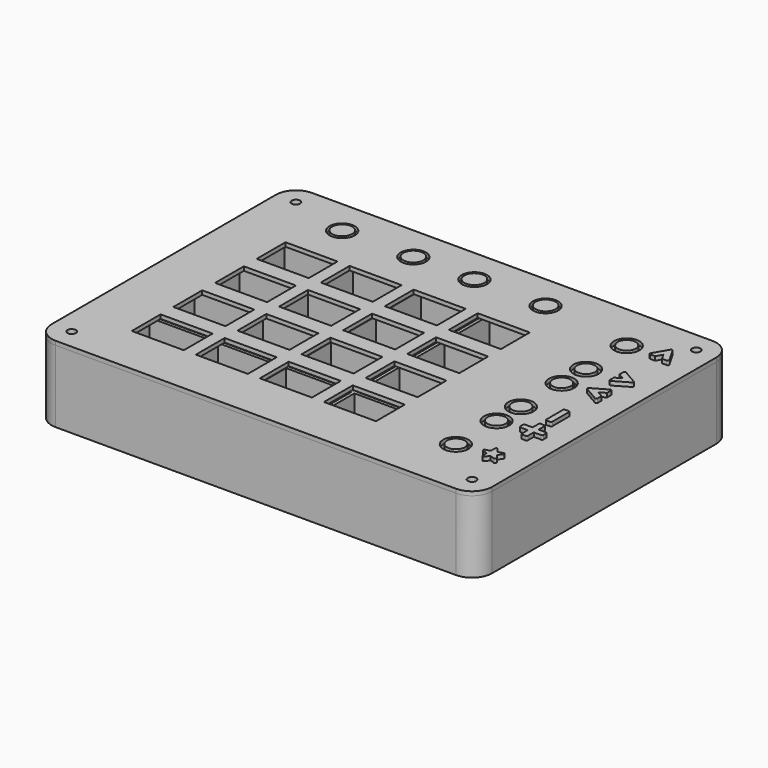
from build123d import *

# Parameters (mm, degrees)
SKETCH004_W             = 51
SKETCH004_H             = 21
SKETCH004_R             = 1
PAD003_DEPTH            = 1
SKETCH005_W             = 6
SKETCH005_H             = 8
SKETCH005_W_2           = 4
SKETCH005_H_2           = 3
PAD004_DEPTH            = 3
SKETCH006_W             = 7
SKETCH006_H             = 7
PAD005_DEPTH            = 1
BODY001_PLACEMENT_ANGLE = 180
SKETCH007_W             = 110
SKETCH007_H             = 80
PAD006_DEPTH            = 18
FILLET_R                = 5
SKETCH008_R             = 1.05
POCKET001_DEPTH         = 17
SKETCH009_R             = 2.5
SKETCH009_R_2           = 1.05
PAD007_DEPTH            = 1
SKETCH010_W             = 9
SKETCH010_H             = 4
POCKET002_DEPTH         = 1
SKETCH034_R             = 2.5
SKETCH034_R_2           = 1.05
PAD022_DEPTH            = 1.9
SKETCH035_W             = 16
SKETCH035_H             = 1
PAD023_DEPTH            = 10
SKETCH036_W             = 16
SKETCH036_H             = 4
PAD024_DEPTH            = 9
SKETCH037_R             = 2.5
SKETCH037_R_2           = 1.05
PAD025_DEPTH            = 9
SKETCH038_W             = 1
SKETCH038_H             = 7
PAD026_DEPTH            = 10
SKETCH039_W             = 3
SKETCH039_H             = 7
PAD027_DEPTH            = 9
SKETCH040_W             = 71.6
SKETCH040_H             = 59.6
SKETCH040_W_2           = 69.6
SKETCH040_H_2           = 57.6
PAD028_DEPTH            = 9
SKETCH041_W             = 69.6
SKETCH041_H             = 57.6
SKETCH041_W_2           = 65
SKETCH041_H_2           = 53
PAD029_DEPTH            = 7
SKETCH042_W             = 3.737823
SKETCH042_H             = 4.05579
SKETCH042_W_2           = 3.532832
SKETCH042_H_2           = 3.864613
SKETCH042_W_3           = 3.228126
SKETCH042_H_3           = 4.012178
SKETCH042_W_4           = 2.786377
SKETCH042_H_4           = 3.681664
SKETCH042_W_5           = 3.760003
SKETCH042_H_5           = 3.112766
SKETCH042_W_6           = 4.34581
SKETCH042_H_6           = 3.19577
SKETCH042_W_7           = 3.94284
SKETCH042_H_7           = 3.029759
SKETCH042_W_8           = 3.931251
SKETCH042_H_8           = 3.281547
POCKET011_DEPTH         = 4
SKETCH044_W             = 4.363612
SKETCH044_H             = 28.943896
SKETCH044_W_2           = 6.223524
SKETCH044_H_2           = 5.107494
SKETCH044_W_3           = 6.223523
SKETCH044_H_3           = 6.921955
SKETCH044_W_4           = 5.947083
SKETCH044_H_4           = 6.586732
POCKET012_DEPTH         = 9
SKETCH049_R             = 1.05
POCKET016_DEPTH         = 10.001
SKETCH017_W             = 71.6
SKETCH017_H             = 59.6
SKETCH017_W_2           = 65
SKETCH017_H_2           = 53
PAD009_DEPTH            = 9
SKETCH015_W             = 69.6
SKETCH015_H             = 57.6
POCKET004_DEPTH         = 2.3
SKETCH016_W             = 4
SKETCH016_H             = 6.120376
SKETCH016_H_2           = 8.800861
SKETCH016_H_3           = 6.480469
SKETCH016_W_2           = 4.590287
SKETCH016_H_4           = 4
SKETCH016_W_3           = 6.815865
SKETCH016_W_4           = 8.345955
SKETCH016_W_5           = 7.094059
POCKET006_DEPTH         = 4
SKETCH018_W             = 70
SKETCH018_H             = 14
SKETCH018_R             = 1
PAD011_DEPTH            = 1.1
SKETCH022_R             = 2.25
PAD014_DEPTH            = 8
BODY004_PLACEMENT_ANGLE = 90
SKETCH019_W             = 74
SKETCH019_H             = 16
PAD013_DEPTH            = 1
SKETCH003_W             = 1
SKETCH003_H             = 16
PAD002_DEPTH            = 10
PAD002_FACE6_W          = 16
PAD002_FACE6_H          = 72
PAD012_DEPTH            = 9
SKETCH021_W             = 66
SKETCH021_H             = 16
POCKET008_DEPTH         = 9
SKETCH023_R             = 2.5
PAD010_DEPTH            = 1.9
SKETCH024_R             = 1.05
POCKET007_DEPTH         = 5
BODY005_PLACEMENT_ANGLE = 90
SKETCH027_W             = 74
SKETCH027_H             = 7
PAD018_DEPTH            = 1
SKETCH028_W             = 1
SKETCH028_H             = 7
PAD016_DEPTH            = 10
PAD016_FACE6_W          = 7
PAD016_FACE6_H          = 72
PAD019_DEPTH            = 9
SKETCH031_W             = 66
SKETCH031_H             = 7
POCKET009_DEPTH         = 9
SKETCH032_R             = 2.5
PAD020_DEPTH            = 9
SKETCH030_R             = 1.05
POCKET010_DEPTH         = 5
BODY006_PLACEMENT_ANGLE = 180
SKETCH029_W             = 70
SKETCH029_H             = 7.62
SKETCH029_R             = 1
PAD017_DEPTH            = 1.1
SKETCH033_R             = 2.5
PAD021_DEPTH            = 8
PAD015_DEPTH            = 1.5
BODY007_PLACEMENT_ANGLE = 180
SKETCH045_R             = 1.05
PAD031_DEPTH            = 1
SKETCH046_R             = 3.15
POCKET013_DEPTH         = 1.001
SKETCH047_W             = 13
SKETCH047_H             = 9
POCKET014_DEPTH         = 1.001
SKETCH048_W             = 1.5
SKETCH048_H             = 5.809476
PAD032_DEPTH            = 1
FILLET001_R             = 0.3
SKETCH_W                = 57
SKETCH_H                = 69
PAD_DEPTH               = 9
SKETCH001_W             = 13.25
SKETCH001_H             = 16.25
POCKET_DEPTH            = 8
SKETCH002_W             = 2
SKETCH002_H             = 51.95
SKETCH002_W_2           = 42.95
SKETCH002_H_2           = 2
POCKET015_DEPTH         = 6
BODY_PLACEMENT_ANGLE    = 90


with BuildPart() as obj1:
    # Sketch004 → Pad003 (new body)
    with BuildSketch(Plane.XY):
        with Locations((-25.5, 10.5)):
            Rectangle(SKETCH004_W, SKETCH004_H)
        with Locations((-49, 16.2)):
            Circle(SKETCH004_R, mode=Mode.SUBTRACT)
        with Locations((-49, 4.8)):
            Circle(SKETCH004_R, mode=Mode.SUBTRACT)
        with Locations((-2, 16.2)):
            Circle(SKETCH004_R, mode=Mode.SUBTRACT)
        with Locations((-2, 4.8)):
            Circle(SKETCH004_R, mode=Mode.SUBTRACT)
    extrude(amount=PAD003_DEPTH)

    # Sketch005 (on Face10 of Pad003) → Pad004 (join)
    with BuildSketch(Plane.XY.offset(1)):
        with Locations((-1, 10.5)):
            Rectangle(SKETCH005_W, SKETCH005_H)
        with Locations((-11.248037, 13.892912)):
            Rectangle(SKETCH005_W_2, SKETCH005_H_2)
    extrude(amount=PAD004_DEPTH)

    # Sketch006 (on Face5 of Pad004) → Pad005 (join)
    with BuildSketch(Plane.XY.offset(1)):
        with Locations((-28.391885, 12.32462)):
            Rectangle(SKETCH006_W, SKETCH006_H)
    extrude(amount=PAD005_DEPTH)


with BuildPart() as obj1_1:
    # Body001 placement: moved
    add(obj1.part.moved(Location((-2, 46.5, -8))).rotate(Axis((-2, 46.5, -8), (0, 0, 1)), BODY001_PLACEMENT_ANGLE))


with BuildPart() as obj2:
    # Sketch007 → Pad006 (new body)
    with BuildSketch(Plane.XY):
        with Locations((55, 40)):
            Rectangle(SKETCH007_W, SKETCH007_H)
    extrude(amount=PAD006_DEPTH)

    # Fillet
    fillet_edges = [obj2.edges().sort_by_distance(p)[0] for p in [
        (110, 0, 9),
        (0, 0, 9),
        (110, 80, 9),
        (0, 80, 9),
    ]]
    fillet(fillet_edges, radius=FILLET_R)

    # Sketch008 (on Face5 of Fillet) → Pocket001 (cut)
    with BuildSketch(Plane.XY.offset(18)):
        with Locations((5, 75)):
            Circle(SKETCH008_R)
        with Locations((5, 5)):
            Circle(SKETCH008_R)
        with Locations((105, 5)):
            Circle(SKETCH008_R)
        with Locations((105, 75)):
            Circle(SKETCH008_R)
        with BuildLine():
            Line((5, 79), (105, 79))
            Line((105, 77.5), (105, 79))
            ThreePointArc((105, 77.5), (103.232233, 73.232233), (107.5, 75))
            Line((107.5, 75), (109, 75))
            Line((109, 75), (109, 5))
            Line((107.5, 5), (109, 5))
            ThreePointArc((107.5, 5), (103.232233, 6.767767), (105, 2.5))
            Line((105, 2.5), (105, 1))
            Line((105, 1), (5, 1))
            Line((5, 2.5), (5, 1))
            ThreePointArc((5, 2.5), (6.767767, 6.767767), (2.5, 5))
            Line((2.5, 5), (1, 5))
            Line((1, 75), (1, 5))
            Line((2.5, 75), (1, 75))
            ThreePointArc((2.5, 75), (6.767767, 73.232233), (5, 77.5))
            Line((5, 77.5), (5, 79))
        make_face()
    extrude(amount=-POCKET001_DEPTH, mode=Mode.SUBTRACT)

    # Sketch009 (on Face34 of Pocket001) → Pad007 (join)
    with BuildSketch(Plane.XY.offset(1)):
        with Locations((4, 45.7)):
            Circle(SKETCH009_R)
        with Locations((4, 45.7)):
            Circle(SKETCH009_R_2, mode=Mode.SUBTRACT)
        with Locations((4, 34.3)):
            Circle(SKETCH009_R)
        with Locations((4, 34.3)):
            Circle(SKETCH009_R_2, mode=Mode.SUBTRACT)
        with Locations((51, 45.7)):
            Circle(SKETCH009_R)
        with Locations((51, 45.7)):
            Circle(SKETCH009_R_2, mode=Mode.SUBTRACT)
        with Locations((51, 34.3)):
            Circle(SKETCH009_R)
        with Locations((51, 34.3)):
            Circle(SKETCH009_R_2, mode=Mode.SUBTRACT)
    extrude(amount=PAD007_DEPTH)

    # Sketch010 (on Face6 of Pad007) → Pocket002 (cut)
    with BuildSketch(Plane(origin=(0, 0, 0), x_dir=(0, -1, 0), z_dir=(-1, 0, 0))):
        with Locations((-40, 4)):
            Rectangle(SKETCH010_W, SKETCH010_H)
    extrude(amount=-POCKET002_DEPTH, mode=Mode.SUBTRACT)

    # Sketch034 (on Face38 of Pocket002) → Pad022 (join)
    with BuildSketch(Plane.XY.offset(1)):
        with Locations((92, 40)):
            Circle(SKETCH034_R)
        with Locations((92, 40)):
            Circle(SKETCH034_R_2, mode=Mode.SUBTRACT)
    extrude(amount=PAD022_DEPTH)

    # Sketch035 (on Face38 of Pad022) → Pad023 (join)
    with BuildSketch(Plane.XY.offset(1)):
        with Locations((94, 77.5)):
            Rectangle(SKETCH035_W, SKETCH035_H)
        with Locations((94, 4.5)):
            Rectangle(SKETCH035_W, SKETCH035_H)
    extrude(amount=PAD023_DEPTH)

    # Sketch036 (on Face38 of Pad023) → Pad024 (join)
    with BuildSketch(Plane.XY.offset(1)):
        with Locations((94, 76)):
            Rectangle(SKETCH036_W, SKETCH036_H)
        with Locations((94, 6)):
            Rectangle(SKETCH036_W, SKETCH036_H)
    extrude(amount=PAD024_DEPTH)

    # Sketch037 (on Face38 of Pad024) → Pad025 (join)
    with BuildSketch(Plane.XY.offset(1)):
        with Locations((45, 69.92)):
            Circle(SKETCH037_R)
        with Locations((45, 69.92)):
            Circle(SKETCH037_R_2, mode=Mode.SUBTRACT)
    extrude(amount=PAD025_DEPTH)

    # Sketch038 (on Face38 of Pad025) → Pad026 (join)
    with BuildSketch(Plane.XY.offset(1)):
        with Locations((7.5, 70.42)):
            Rectangle(SKETCH038_W, SKETCH038_H)
        with Locations((80.5, 70.42)):
            Rectangle(SKETCH038_W, SKETCH038_H)
    extrude(amount=PAD026_DEPTH)

    # Sketch039 (on Face38 of Pad026) → Pad027 (join)
    with BuildSketch(Plane.XY.offset(1)):
        with Locations((9.5, 70.42)):
            Rectangle(SKETCH039_W, SKETCH039_H)
        with Locations((78.5, 70.42)):
            Rectangle(SKETCH039_W, SKETCH039_H)
    extrude(amount=PAD027_DEPTH)

    # Sketch040 (on Face38 of Pad027) → Pad028 (join)
    with BuildSketch(Plane.XY.offset(1)):
        with Locations((44.5, 36.5)):
            Rectangle(SKETCH040_W, SKETCH040_H)
        with Locations((44.5, 36.5)):
            Rectangle(SKETCH040_W_2, SKETCH040_H_2, mode=Mode.SUBTRACT)
    extrude(amount=PAD028_DEPTH)

    # Sketch041 (on Face104 of Pad028) → Pad029 (join)
    with BuildSketch(Plane.XY.offset(1)):
        with Locations((44.5, 36.5)):
            Rectangle(SKETCH041_W, SKETCH041_H)
        with Locations((44.5, 36.5)):
            Rectangle(SKETCH041_W_2, SKETCH041_H_2, mode=Mode.SUBTRACT)
    extrude(amount=PAD029_DEPTH)

    # Sketch042 (on Face80 of Pad029) → Pocket011 (cut)
    with BuildSketch(Plane.XY.offset(10)):
        with Locations((25.124486, 64.604414)):
            Rectangle(SKETCH042_W, SKETCH042_H)
        with Locations((42.285055, 64.726515)):
            Rectangle(SKETCH042_W_2, SKETCH042_H_2)
        with Locations((59.258728, 64.491966)):
            Rectangle(SKETCH042_W_3, SKETCH042_H_3)
        with Locations((76.717072, 64.728905)):
            Rectangle(SKETCH042_W_4, SKETCH042_H_4)
        with Locations((78.681004, 52.679392)):
            Rectangle(SKETCH042_W_5, SKETCH042_H_5)
        with Locations((78.755173, 38.478939)):
            Rectangle(SKETCH042_W_6, SKETCH042_H_6)
        with Locations((78.670883, 24.575254)):
            Rectangle(SKETCH042_W_7, SKETCH042_H_7)
        with Locations((78.853168, 10.715007)):
            Rectangle(SKETCH042_W_8, SKETCH042_H_8)
    extrude(amount=-POCKET011_DEPTH, mode=Mode.SUBTRACT)

    # Sketch044 → Pocket012 (cut)
    with BuildSketch(Plane.XY.offset(10)):
        with Locations((10.514859, 40)):
            Rectangle(SKETCH044_W, SKETCH044_H)
        with Locations((34.904027, 64.856585)):
            Rectangle(SKETCH044_W_2, SKETCH044_H_2)
        with Locations((70.2419, 64.198629)):
            Rectangle(SKETCH044_W_3, SKETCH044_H_3)
        with Locations((78.689301, 31.457982)):
            Rectangle(SKETCH044_W_4, SKETCH044_H_4)
    extrude(amount=-POCKET012_DEPTH, mode=Mode.SUBTRACT)

    # Sketch049 (on Face96 of Pocket012) → Pocket016 (cut, through all)
    with BuildSketch(Plane.XY.offset(10)):
        with Locations((4, 45.7)):
            Circle(SKETCH049_R)
        with Locations((4, 34.3)):
            Circle(SKETCH049_R)
        with Locations((51, 45.7)):
            Circle(SKETCH049_R)
        with Locations((51, 34.3)):
            Circle(SKETCH049_R)
        with Locations((92, 40)):
            Circle(SKETCH049_R)
    extrude(amount=-POCKET016_DEPTH, mode=Mode.SUBTRACT)


with BuildPart() as obj2_1:
    # Body002 placement: moved
    add(obj2.part.moved(Location((-4, -4, -10))))


with BuildPart() as matrix_stand:
    # Sketch017 → Pad009 (new body)
    with BuildSketch(Plane.XY):
        with Locations((32.5, 26.5)):
            Rectangle(SKETCH017_W, SKETCH017_H)
        with Locations((32.5, 26.5)):
            Rectangle(SKETCH017_W_2, SKETCH017_H_2, mode=Mode.SUBTRACT)
    extrude(amount=PAD009_DEPTH)

    # Sketch015 (on Face10 of Pad009) → Pocket004 (cut)
    with BuildSketch(Plane.XY.offset(9)):
        with Locations((32.5, 26.5)):
            Rectangle(SKETCH015_W, SKETCH015_H)
    extrude(amount=-POCKET004_DEPTH, mode=Mode.SUBTRACT)

    # Sketch016 (on Face5 of Pocket004) → Pocket006 (cut)
    with BuildSketch(Plane.XY.offset(9)):
        with Locations((2, 55.074108)):
            Rectangle(SKETCH016_W, SKETCH016_H)
        with Locations((18, 54.935013)):
            Rectangle(SKETCH016_W, SKETCH016_H)
        with Locations((34, 55.440656)):
            Rectangle(SKETCH016_W, SKETCH016_H_2)
        with Locations((50, 54.707588)):
            Rectangle(SKETCH016_W, SKETCH016_H_3)
        with Locations((66.644729, 51)):
            Rectangle(SKETCH016_W_2, SKETCH016_H_4)
        with Locations((68.408039, 38)):
            Rectangle(SKETCH016_W_3, SKETCH016_H_4)
        with Locations((68.127536, 25)):
            Rectangle(SKETCH016_W_4, SKETCH016_H_4)
        with Locations((67.62956, 12)):
            Rectangle(SKETCH016_W_5, SKETCH016_H_4)
    extrude(amount=-POCKET006_DEPTH, mode=Mode.SUBTRACT)


with BuildPart() as matrix_stand_1:
    # Body003 placement: moved
    add(matrix_stand.part.moved(Location((8, 6, -9))))


with BuildPart() as pcb_bottom:
    # Sketch018 → Pad011 (new body)
    with BuildSketch(Plane.XY):
        with Locations((35, 7)):
            Rectangle(SKETCH018_W, SKETCH018_H)
        with Locations((34, 9)):
            Circle(SKETCH018_R, mode=Mode.SUBTRACT)
    extrude(amount=PAD011_DEPTH)

    # Sketch022 (on Face7 of Pad011) → Pad014 (join)
    with BuildSketch(Plane.XY.offset(1.1)):
        with Locations((28.92, 7.73)):
            Circle(SKETCH022_R)
        with Locations((41.62, 7.73)):
            Circle(SKETCH022_R)
        with Locations((49.24, 7.73)):
            Circle(SKETCH022_R)
        with Locations((61.94, 7.73)):
            Circle(SKETCH022_R)
        with Locations((8.6, 7.73)):
            Circle(SKETCH022_R)
        with Locations((21.3, 7.73)):
            Circle(SKETCH022_R)
    extrude(amount=PAD014_DEPTH)


with BuildPart() as pcb_bottom_1:
    # Body004 placement: moved
    add(pcb_bottom.part.moved(Location((97, 2, 0))).rotate(Axis((97, 2, 0), (0, 0, 1)), BODY004_PLACEMENT_ANGLE))


with BuildPart() as stand_bottom:
    # Sketch019 → Pad013 (new body)
    with BuildSketch(Plane.XY):
        with Locations((35, 7)):
            Rectangle(SKETCH019_W, SKETCH019_H)
    extrude(amount=PAD013_DEPTH)

    # Sketch003 (on Face6 of Pad013) → Pad002 (join)
    with BuildSketch(Plane.XY.offset(1)):
        with Locations((-1.5, 7)):
            Rectangle(SKETCH003_W, SKETCH003_H)
        with Locations((71.5, 7)):
            Rectangle(SKETCH003_W, SKETCH003_H)
    extrude(amount=PAD002_DEPTH)

    # Pad002 Face6 → Pad012 (add)
    with BuildSketch(Plane(origin=(35, 7, 1), x_dir=(0, 1, 0), z_dir=(0, 0, 1))):
        Rectangle(PAD002_FACE6_W, PAD002_FACE6_H)
    extrude(amount=PAD012_DEPTH)

    # Sketch021 (on Face13 of Pad012) → Pocket008 (cut)
    with BuildSketch(Plane.XY.offset(10)):
        with Locations((35, 7)):
            Rectangle(SKETCH021_W, SKETCH021_H)
    extrude(amount=-POCKET008_DEPTH, mode=Mode.SUBTRACT)

    # Sketch023 (on Face7 of Pocket008) → Pad010 (join)
    with BuildSketch(Plane.XY.offset(1)):
        with Locations((34, 9)):
            Circle(SKETCH023_R)
    extrude(amount=PAD010_DEPTH)

    # Sketch024 (on Face26 of Pad010) → Pocket007 (cut)
    with BuildSketch(Plane.XY.offset(2.9)):
        with Locations((34, 9)):
            Circle(SKETCH024_R)
    extrude(amount=-POCKET007_DEPTH, mode=Mode.SUBTRACT)


with BuildPart() as stand_bottom_1:
    # Body005 placement: moved
    add(stand_bottom.part.moved(Location((97, 2, -10))).rotate(Axis((97, 2, -10), (0, 0, 1)), BODY005_PLACEMENT_ANGLE))


with BuildPart() as stand_side:
    # Sketch027 → Pad018 (new body)
    with BuildSketch(Plane.XY):
        with Locations((35, 4.58)):
            Rectangle(SKETCH027_W, SKETCH027_H)
    extrude(amount=PAD018_DEPTH)

    # Sketch028 (on Face6 of Pad018) → Pad016 (join)
    with BuildSketch(Plane.XY.offset(1)):
        with Locations((-1.5, 4.58)):
            Rectangle(SKETCH028_W, SKETCH028_H)
        with Locations((71.5, 4.58)):
            Rectangle(SKETCH028_W, SKETCH028_H)
    extrude(amount=PAD016_DEPTH)

    # Pad016 Face6 → Pad019 (add)
    with BuildSketch(Plane(origin=(35, 4.58, 1), x_dir=(0, 1, 0), z_dir=(0, 0, 1))):
        Rectangle(PAD016_FACE6_W, PAD016_FACE6_H)
    extrude(amount=PAD019_DEPTH)

    # Sketch031 (on Face13 of Pad019) → Pocket009 (cut)
    with BuildSketch(Plane.XY.offset(10)):
        with Locations((35, 4.58)):
            Rectangle(SKETCH031_W, SKETCH031_H)
    extrude(amount=-POCKET009_DEPTH, mode=Mode.SUBTRACT)

    # Sketch032 (on Face7 of Pocket009) → Pad020 (join)
    with BuildSketch(Plane.XY.offset(1)):
        with Locations((34, 5.08)):
            Circle(SKETCH032_R)
    extrude(amount=PAD020_DEPTH)

    # Sketch030 (on Face26 of Pad020) → Pocket010 (cut)
    with BuildSketch(Plane.XY.offset(10)):
        with Locations((34, 5.08)):
            Circle(SKETCH030_R)
    extrude(amount=-POCKET010_DEPTH, mode=Mode.SUBTRACT)


with BuildPart() as stand_side_1:
    # Body006 placement: moved
    add(stand_side.part.moved(Location((75, 71, -10))).rotate(Axis((75, 71, -10), (0, 0, 1)), BODY006_PLACEMENT_ANGLE))


with BuildPart() as pcb_side:
    # Sketch029 → Pad017 (new body)
    with BuildSketch(Plane.XY):
        with Locations((35, 3.81)):
            Rectangle(SKETCH029_W, SKETCH029_H)
        with Locations((34, 5.08)):
            Circle(SKETCH029_R, mode=Mode.SUBTRACT)
    extrude(amount=PAD017_DEPTH)

    # Sketch033 (on Face7 of Pad017) → Pad021 (join)
    with BuildSketch(Plane.XY.offset(1.1)):
        with Locations((26.38, 3.81)):
            Circle(SKETCH033_R)
        with Locations((41.62, 3.81)):
            Circle(SKETCH033_R)
        with Locations((59.4, 3.81)):
            Circle(SKETCH033_R)
        with Locations((8.6, 3.81)):
            Circle(SKETCH033_R)
    extrude(amount=PAD021_DEPTH)

    # Sketch025 (on Face5 of Pad021) → Pad015 (join)
    with BuildSketch(Plane.XY.offset(1.1)):
        Polygon((3.106141, 4.536354), (3.106141, 5.623646), (2.164519, 6.167292), (1.222896, 5.623646), (1.222896, 4.536354), (2.164519, 3.992708), align=None)
    extrude(amount=PAD015_DEPTH)


with BuildPart() as pcb_side_1:
    # Body007 placement: moved
    add(pcb_side.part.moved(Location((75, 71, 0))).rotate(Axis((75, 71, 0), (0, 0, 1)), BODY007_PLACEMENT_ANGLE))


with BuildPart() as obj3:
    # Sketch045 → Pad031 (new body)
    with BuildSketch(Plane.XY):
        with BuildLine():
            Line((-4, 71), (-4, 1))
            ThreePointArc((-4, 1), (-2.535534, -2.535534), (1, -4))
            Line((1, -4), (101, -4))
            ThreePointArc((101, -4), (104.535534, -2.535534), (106, 1))
            Line((106, 1), (106, 71))
            ThreePointArc((106, 71), (104.535534, 74.535534), (101, 76))
            Line((101, 76), (1, 76))
            ThreePointArc((1, 76), (-2.535534, 74.535534), (-4, 71))
        make_face()
        with Locations((1, 71)):
            Circle(SKETCH045_R, mode=Mode.SUBTRACT)
        with Locations((1, 1)):
            Circle(SKETCH045_R, mode=Mode.SUBTRACT)
        with Locations((101, 1)):
            Circle(SKETCH045_R, mode=Mode.SUBTRACT)
        with Locations((101, 71)):
            Circle(SKETCH045_R, mode=Mode.SUBTRACT)
    extrude(amount=PAD031_DEPTH)

    # Sketch046 (on Face14 of Pad031) → Pocket013 (cut, through all)
    with BuildSketch(Plane.XY.offset(1)):
        with Locations((15.6, 67.19)):
            Circle(SKETCH046_R)
        with Locations((33.38, 67.19)):
            Circle(SKETCH046_R)
        with Locations((48.62, 67.19)):
            Circle(SKETCH046_R)
        with Locations((66.4, 67.19)):
            Circle(SKETCH046_R)
        with Locations((89.27, 51.24)):
            Circle(SKETCH046_R)
        with Locations((89.27, 43.62)):
            Circle(SKETCH046_R)
        with Locations((89.27, 63.94)):
            Circle(SKETCH046_R)
        with Locations((89.27, 30.92)):
            Circle(SKETCH046_R)
        with Locations((89.27, 23.3)):
            Circle(SKETCH046_R)
        with Locations((89.27, 10.6)):
            Circle(SKETCH046_R)
    extrude(amount=-POCKET013_DEPTH, mode=Mode.SUBTRACT)

    # Sketch047 (on Face5 of Pocket013) → Pocket014 (cut, through all)
    with BuildSketch(Plane.XY.offset(1)):
        with Locations((16.5, 52)):
            Rectangle(SKETCH047_W, SKETCH047_H)
        with Locations((16.5, 39)):
            Rectangle(SKETCH047_W, SKETCH047_H)
        with Locations((16.5, 26)):
            Rectangle(SKETCH047_W, SKETCH047_H)
        with Locations((16.5, 13)):
            Rectangle(SKETCH047_W, SKETCH047_H)
        with Locations((32.5, 39)):
            Rectangle(SKETCH047_W, SKETCH047_H)
        with Locations((32.5, 26)):
            Rectangle(SKETCH047_W, SKETCH047_H)
        with Locations((32.5, 13)):
            Rectangle(SKETCH047_W, SKETCH047_H)
        with Locations((48.5, 39)):
            Rectangle(SKETCH047_W, SKETCH047_H)
        with Locations((48.5, 26)):
            Rectangle(SKETCH047_W, SKETCH047_H)
        with Locations((48.5, 13)):
            Rectangle(SKETCH047_W, SKETCH047_H)
        with Locations((64.5, 39)):
            Rectangle(SKETCH047_W, SKETCH047_H)
        with Locations((64.5, 26)):
            Rectangle(SKETCH047_W, SKETCH047_H)
        with Locations((64.5, 13)):
            Rectangle(SKETCH047_W, SKETCH047_H)
        with Locations((32.5, 52)):
            Rectangle(SKETCH047_W, SKETCH047_H)
        with Locations((48.5, 52)):
            Rectangle(SKETCH047_W, SKETCH047_H)
        with Locations((64.5, 52)):
            Rectangle(SKETCH047_W, SKETCH047_H)
    extrude(amount=-POCKET014_DEPTH, mode=Mode.SUBTRACT)

    # Sketch048 (on Face5 of Pocket014) → Pad032 (join)
    with BuildSketch(Plane.XY.offset(1)):
        Polygon((98.42, 66.94), (95.821924, 62.44), (97.553975, 62.44), (98.42, 63.94), (99.286025, 62.44), (101.018076, 62.44), align=None)
        Polygon((95.42, 43.62), (99.92, 41.021924), (99.92, 42.753975), (98.42, 43.62), (99.92, 44.486025), (99.92, 46.218076), align=None)
        Polygon((101.42, 51.24), (96.92, 53.838076), (96.92, 52.106025), (98.42, 51.24), (96.92, 50.373975), (96.92, 48.641924), align=None)
        Polygon((101.324738, 24.05), (101.324738, 22.55), (99.17, 22.55), (99.17, 20.395262), (97.67, 20.395262), (97.67, 22.55), (95.515262, 22.55), (95.515262, 24.05), (97.67, 24.05), (97.67, 26.204738), (99.17, 26.204738), (99.17, 24.05), align=None)
        with Locations((98.42, 30.92)):
            Rectangle(SKETCH048_W, SKETCH048_H)
        Polygon((97.492949, 11.273542), (95.42, 10.6), (97.492949, 9.926458), (97.492949, 7.74683), (98.774102, 9.510186), (100.847051, 8.836644), (99.565898, 10.6), (100.847051, 12.363356), (98.774102, 11.689814), (97.492949, 13.45317), align=None)
    extrude(amount=PAD032_DEPTH)

    # Fillet001
    fillet001_edges = [obj3.edges().sort_by_distance(p)[0] for p in [
        (101.018076, 62.44, 1.5),
        (98.42, 66.94, 1.5),
        (96.92, 53.838076, 1.5),
        (101.42, 51.24, 1.5),
        (99.92, 46.218076, 1.5),
        (95.42, 43.62, 1.5),
        (99.92, 41.021924, 1.5),
        (99.17, 33.824738, 1.5),
        (97.67, 33.824738, 1.5),
        (99.17, 28.015262, 1.5),
        (99.17, 26.204738, 1.5),
        (97.67, 26.204738, 1.5),
        (95.515262, 24.05, 1.5),
        (99.17, 20.395262, 1.5),
        (101.324738, 22.55, 1.5),
        (101.324738, 24.05, 1.5),
        (100.847051, 8.836644, 1.5),
        (100.847051, 12.363356, 1.5),
        (97.492949, 13.45317, 1.5),
        (95.42, 10.6, 1.5),
        (97.492949, 7.74683, 1.5),
        (97.67, 20.395262, 1.5),
        (95.515262, 22.55, 1.5),
        (96.92, 48.641924, 1.5),
        (95.821924, 62.44, 1.5),
        (97.67, 28.015262, 1.5),
    ]]
    fillet(fillet001_edges, radius=FILLET001_R)


with BuildPart() as obj3_1:
    # Body008 placement: moved
    add(obj3.part.moved(Location((0, 0, 8))))


with BuildPart() as mat_case:
    # Sketch → Pad (new body)
    with BuildSketch(Plane.XY):
        with Locations((28.5, 34.5)):
            Rectangle(SKETCH_W, SKETCH_H)
    extrude(amount=PAD_DEPTH)

    # Sketch001 (on Face6 of Pad) → Pocket (cut)
    with BuildSketch(Plane.XY.offset(9)):
        with Locations((7.425, 60.075)):
            Rectangle(SKETCH001_W, SKETCH001_H)
        with Locations((21.475, 60.075)):
            Rectangle(SKETCH001_W, SKETCH001_H)
        with Locations((35.525, 60.075)):
            Rectangle(SKETCH001_W, SKETCH001_H)
        with Locations((49.575, 60.075)):
            Rectangle(SKETCH001_W, SKETCH001_H)
        with Locations((7.425, 43.025)):
            Rectangle(SKETCH001_W, SKETCH001_H)
        with Locations((7.425, 25.975)):
            Rectangle(SKETCH001_W, SKETCH001_H)
        with Locations((7.425, 8.925)):
            Rectangle(SKETCH001_W, SKETCH001_H)
        with Locations((21.475, 43.025)):
            Rectangle(SKETCH001_W, SKETCH001_H)
        with Locations((35.525, 43.025)):
            Rectangle(SKETCH001_W, SKETCH001_H)
        with Locations((49.575, 43.025)):
            Rectangle(SKETCH001_W, SKETCH001_H)
        with Locations((21.475, 25.975)):
            Rectangle(SKETCH001_W, SKETCH001_H)
        with Locations((35.525, 25.975)):
            Rectangle(SKETCH001_W, SKETCH001_H)
        with Locations((49.575, 25.975)):
            Rectangle(SKETCH001_W, SKETCH001_H)
        with Locations((21.475, 8.925)):
            Rectangle(SKETCH001_W, SKETCH001_H)
        with Locations((35.525, 8.925)):
            Rectangle(SKETCH001_W, SKETCH001_H)
        with Locations((49.575, 8.925)):
            Rectangle(SKETCH001_W, SKETCH001_H)
    extrude(amount=-POCKET_DEPTH, mode=Mode.SUBTRACT)

    # Sketch002 (on Face5 of Pocket) → Pocket015 (cut)
    with BuildSketch(Plane.XY.offset(9)):
        with Locations((2.3, 25.975)):
            Rectangle(SKETCH002_W, SKETCH002_H)
        with Locations((16.35, 25.975)):
            Rectangle(SKETCH002_W, SKETCH002_H)
        with Locations((30.4, 25.975)):
            Rectangle(SKETCH002_W, SKETCH002_H)
        with Locations((44.45, 25.975)):
            Rectangle(SKETCH002_W, SKETCH002_H)
        with Locations((35.525, 53.45)):
            Rectangle(SKETCH002_W_2, SKETCH002_H_2)
        with Locations((35.525, 36.4)):
            Rectangle(SKETCH002_W_2, SKETCH002_H_2)
        with Locations((35.525, 19.35)):
            Rectangle(SKETCH002_W_2, SKETCH002_H_2)
        with Locations((35.525, 2.3)):
            Rectangle(SKETCH002_W_2, SKETCH002_H_2)
    extrude(amount=-POCKET015_DEPTH, mode=Mode.SUBTRACT)


with BuildPart() as mat_case_1:
    # Body placement: moved
    add(mat_case.part.moved(Location((75, 4, -2))).rotate(Axis((75, 4, -2), (0, 0, 1)), BODY_PLACEMENT_ANGLE))


solid = Compound([obj1_1.part, obj2_1.part, matrix_stand_1.part, pcb_bottom_1.part, stand_bottom_1.part, stand_side_1.part, pcb_side_1.part, obj3_1.part, mat_case_1.part])
